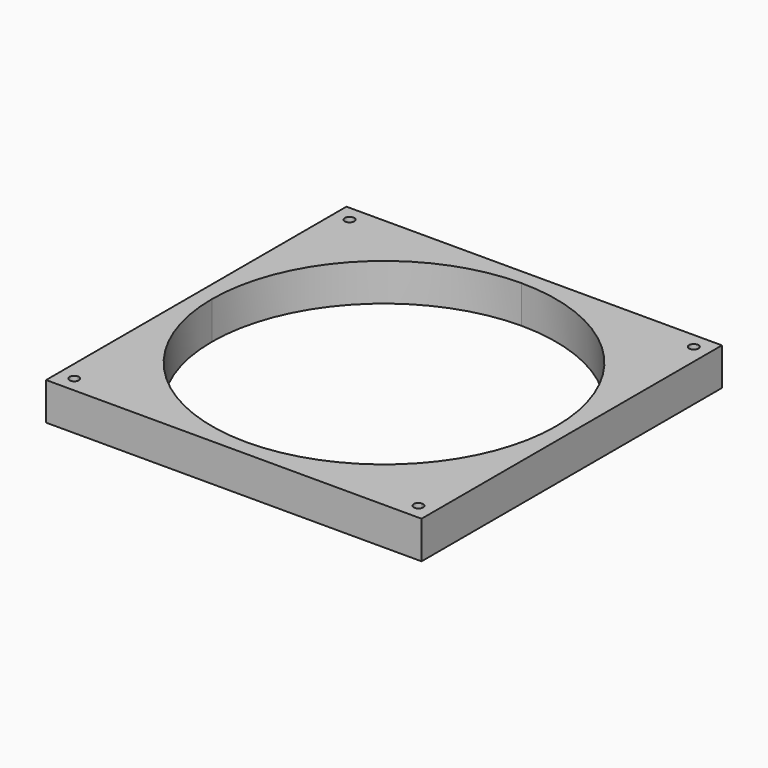
from build123d import *

# Parameters (mm, degrees)
F0_W     = 180
F0_H     = 180
F1_DEPTH = 18


with BuildPart() as f1:
    # F0 (on Top) → F1 (new body)
    with BuildSketch(Plane.XY):
        Rectangle(F0_W, F0_H)
        with BuildLine():
            Line((7.67e-08, -82.5), (-80.25, -82.5))
            ThreePointArc((-80.25, -82.5), (-84.0909902577, -84.0909902577), (-82.5, -80.25))
            Line((-82.5, -80.25), (-82.5, 6.55e-08))
            Line((-82.5, 6.55e-08), (-82.5, 80.25))
            ThreePointArc((-82.5, 80.25), (-84.0909902577, 84.0909902577), (-80.25, 82.5))
            Line((-80.25, 82.5), (-2.008e-07, 82.5))
            Line((-2.008e-07, 82.5), (80.25, 82.5))
            ThreePointArc((80.25, 82.5), (82.5, 84.75), (84.75, 82.5))
            ThreePointArc((84.75, 82.5), (84.0909902577, 80.9090097423), (82.5, 80.25))
            Line((82.5, 80.25), (82.5, 0))
            Line((82.5, 0), (82.5, -80.25))
            ThreePointArc((82.5, -80.25), (84.0909902577, -80.9090097423), (84.75, -82.5))
            ThreePointArc((84.75, -82.5), (82.5, -84.75), (80.25, -82.5))
            Line((80.25, -82.5), (7.67e-08, -82.5))
        make_face(mode=Mode.SUBTRACT)
        with BuildLine():
            ThreePointArc((-82.5, -80.25), (-80.9090097423, -80.9090097423), (-80.25, -82.5))
            Line((-80.25, -82.5), (7.67e-08, -82.5))
            ThreePointArc((7.67e-08, -82.5), (-58.3363094439, -58.3363094519), (-82.5, 6.55e-08))
            Line((-82.5, 6.55e-08), (-82.5, -80.25))
        make_face()
        with BuildLine():
            Line((-82.5, 80.25), (-82.5, 6.55e-08))
            ThreePointArc((-82.5, 6.55e-08), (-58.3363094957, 58.3363094), (-2.008e-07, 82.5))
            Line((-2.008e-07, 82.5), (-80.25, 82.5))
            ThreePointArc((-80.25, 82.5), (-80.9090097423, 80.9090097423), (-82.5, 80.25))
        make_face()
        with BuildLine():
            ThreePointArc((82.5, 0), (58.336309475, -58.3363094208), (7.67e-08, -82.5))
            Line((7.67e-08, -82.5), (80.25, -82.5))
            ThreePointArc((80.25, -82.5), (80.9090097423, -80.9090097423), (82.5, -80.25))
            Line((82.5, -80.25), (82.5, 0))
        make_face()
        with BuildLine():
            ThreePointArc((-2.008e-07, 82.5), (58.3363093769, 58.3363095189), (82.5, 0))
            Line((82.5, 0), (82.5, 80.25))
            ThreePointArc((82.5, 80.25), (80.9090097423, 80.9090097423), (80.25, 82.5))
            Line((80.25, 82.5), (-2.008e-07, 82.5))
        make_face()
    extrude(amount=F1_DEPTH)


solid = f1.part
